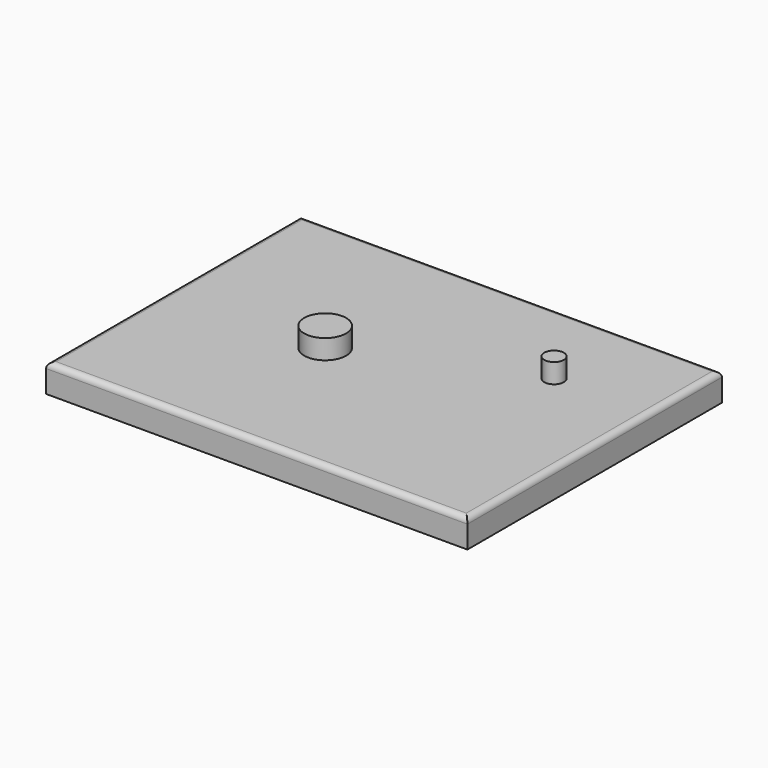
from build123d import *

# Parameters (mm, degrees)
F0_W     = 150.591
F0_H     = 113.711
F0_R     = 7.5
F0_R_2   = 3.5
F1_DEPTH = 10
F2_R     = 2
F3_DEPTH = 17


with BuildPart() as f1:
    # F0 (on Top) → F1 (new body)
    with BuildSketch(Plane.XY):
        Rectangle(F0_W, F0_H)
        with Locations((-19.8485, -1.4755)):
            Circle(F0_R, mode=Mode.SUBTRACT)
        with Locations((41.5985, 23.9765)):
            Circle(F0_R_2, mode=Mode.SUBTRACT)
        with Locations((-19.8485, -1.4755)):
            Circle(F0_R)
        with Locations((41.5985, 23.9765)):
            Circle(F0_R_2)
    extrude(amount=F1_DEPTH)

    # F2
    f2_edges = [f1.edges().sort_by_distance(p)[0] for p in [
        (0, -56.8555, 10),
        (-75.2955, 0, 10),
        (0, 56.8555, 10),
        (75.2955, 0, 10),
    ]]
    fillet(f2_edges, radius=F2_R)

    # F0 (on Top) → F3 (join)
    with BuildSketch(Plane.XY):
        with Locations((-19.8485, -1.4755)):
            Circle(F0_R)
        with Locations((41.5985, 23.9765)):
            Circle(F0_R_2)
    extrude(amount=F3_DEPTH)


solid = f1.part
